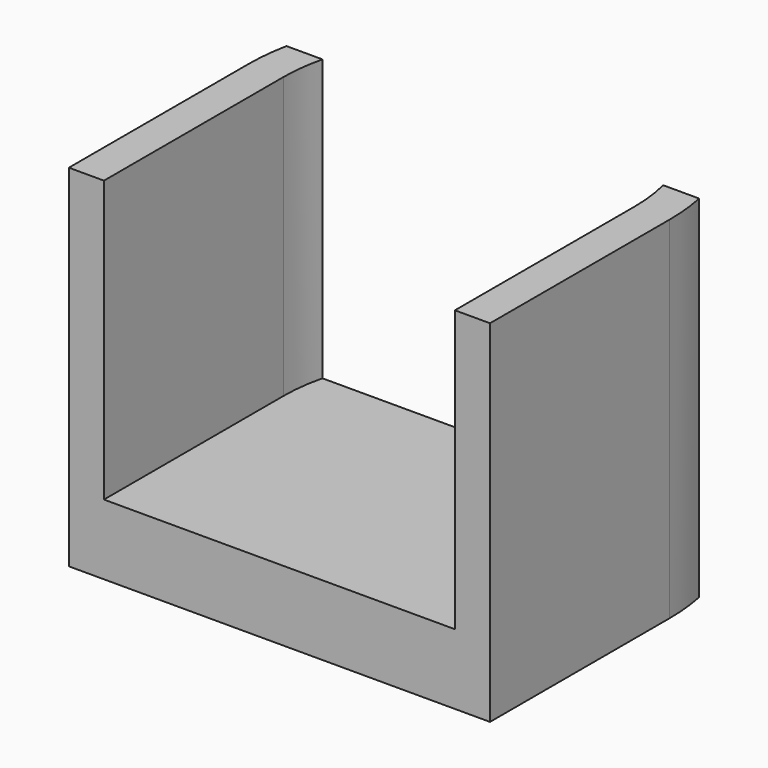
from build123d import *

# Parameters (mm, degrees)
F1_DEPTH = 25
F3_DEPTH = 20


with BuildPart() as f1:
    # F0 (on Top) → F1 (new body)
    with BuildSketch(Plane.XY):
        with BuildLine():
            Line((0, 3), (-12.134661, 3))
            ThreePointArc((-12.134661, 3), (0, -12.5), (12.134661, 3))
            Line((12.134661, 3), (0, 3))
        make_face()
        with BuildLine():
            ThreePointArc((12.134661, 3), (0, -12.5), (-12.134661, 3))
            Line((-12.134661, 3), (-14.696938, 3))
            ThreePointArc((-14.696938, 3), (-14.924042, 1.507634), (-15, 0))
            ThreePointArc((-15, 0), (0, -15), (15, 0))
            ThreePointArc((15, 0), (14.924042, 1.507634), (14.696938, 3))
            Line((14.696938, 3), (12.134661, 3))
        make_face()
        with BuildLine():
            ThreePointArc((15, 0), (0, -15), (-15, 0))
            Line((-15, 0), (-15, -16))
            Line((-15, -16), (15, -16))
            Line((15, -16), (15, 0))
        make_face()
    extrude(amount=F1_DEPTH)

    # F2 (on face) → F3 (cut)
    with BuildSketch(Plane.XY.offset(25)):
        with BuildLine():
            ThreePointArc((12.5, 0), (0, -12.5), (-12.5, 0))
            Line((-12.5, 0), (-12.5, -16))
            Line((-12.5, -16), (12.5, -16))
            Line((12.5, -16), (12.5, 0))
        make_face()
        with BuildLine():
            ThreePointArc((-12.134661, 3), (-12.408329, 1.511082), (-12.5, 0))
            ThreePointArc((-12.5, 0), (0, -12.5), (12.5, 0))
            ThreePointArc((12.5, 0), (12.408329, 1.511082), (12.134661, 3))
            Line((12.134661, 3), (-12.134661, 3))
        make_face()
    extrude(amount=-F3_DEPTH, mode=Mode.SUBTRACT)


solid = f1.part
